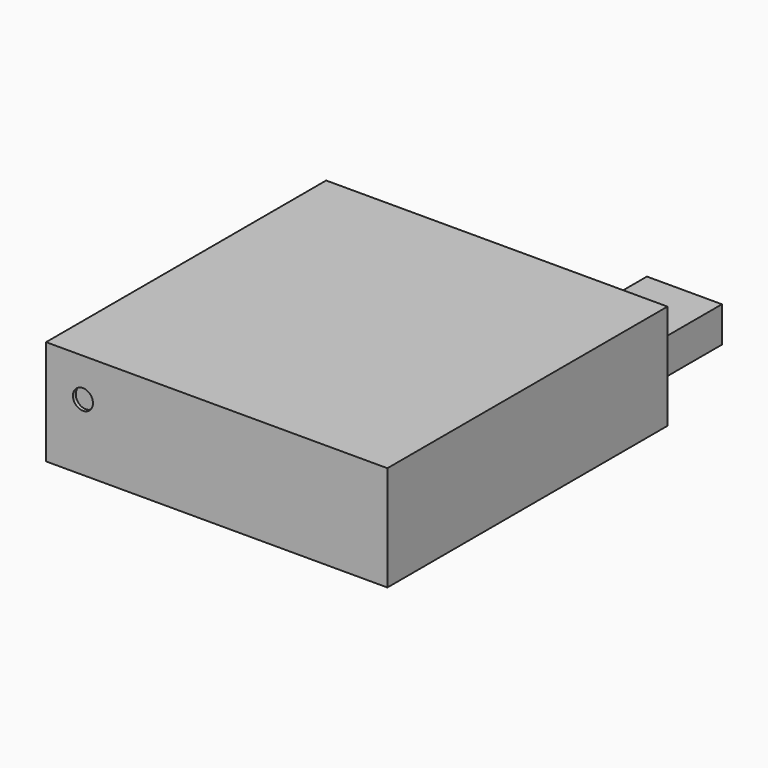
from build123d import *

# Parameters (mm, degrees)
F0_W     = 195
F0_H     = 200
F1_DEPTH = 60
F2_W     = 42.843923
F2_H     = 20.3234
F3_DEPTH = 47.3
F4_R     = 5.719599
F5_DEPTH = 2


with BuildPart() as f1:
    # F0 (on Top) → F1 (new body)
    with BuildSketch(Plane.XY):
        Rectangle(F0_W, F0_H)
    extrude(amount=F1_DEPTH)

    # F2 (on face) → F3 (join)
    with BuildSketch(Plane(origin=(0, 100, 0), x_dir=(-1, 0, 0), z_dir=(0, 1, 0))):
        with Locations((-69.346733, 29.588042)):
            Rectangle(F2_W, F2_H)
    extrude(amount=F3_DEPTH)

    # F4 (on face) → F5 (cut)
    with BuildSketch(Plane.XZ.offset(100)):
        with Locations((-76.43842, 38.019974)):
            Circle(F4_R)
    extrude(amount=-F5_DEPTH, mode=Mode.SUBTRACT)


solid = f1.part
